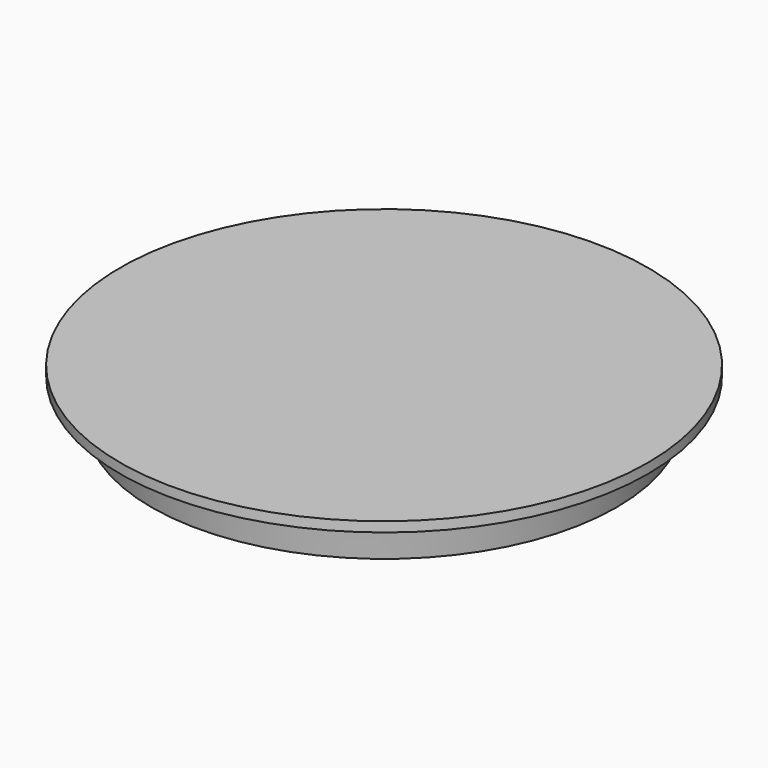
from build123d import *

# Parameters (mm, degrees)
F0_R     = 35.25
F1_DEPTH = 6
F1_TAPER = -7.5
F2_R     = 40
F2_R_2   = 36.0399149855
F3_DEPTH = 1.5


with BuildPart() as f1:
    # F0 (on Top) → F1 (new body)
    with BuildSketch(Plane.XY):
        Circle(F0_R)
    extrude(amount=F1_DEPTH, taper=F1_TAPER)

    # F2 (on face) → F3 (join)
    with BuildSketch(Plane.XY.offset(6)):
        Circle(F2_R)
        Circle(F2_R_2, mode=Mode.SUBTRACT)
        Circle(F2_R_2)
    extrude(amount=F3_DEPTH)


solid = f1.part
